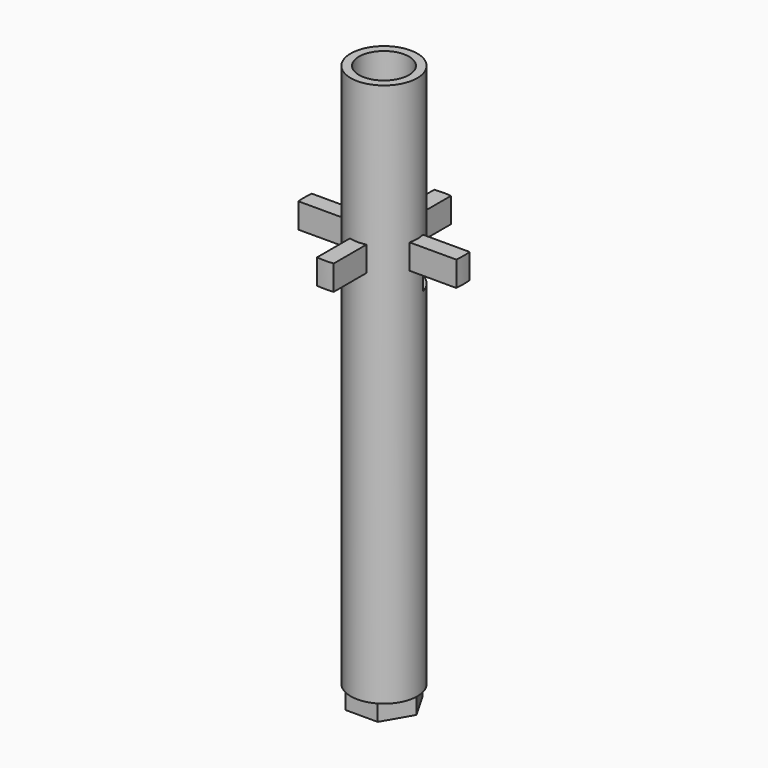
from build123d import *

# Parameters (mm, degrees)
SKETCH050_R     = 3
PAD038_DEPTH    = 2
SKETCH051_R     = 4
SKETCH051_R_2   = 3
PAD039_DEPTH    = 45.35
PAD040_DEPTH    = 3
SKETCH053_R     = 4
SKETCH053_R_2   = 3
PAD041_DEPTH    = 20
SKETCH054_W     = 15
SKETCH054_H     = 3
POCKET_DEPTH    = 5
SKETCH055_R     = 3
POCKET001_DEPTH = 67.351


with BuildPart() as part:
    # Sketch050 → Pad038 (new body)
    with BuildSketch(Plane.XY):
        Polygon((1.95, 3.377499), (-1.95, 3.377499), (-3.9, 0), (-1.95, -3.377499), (1.95, -3.377499), (3.9, 0), align=None)
        Circle(SKETCH050_R, mode=Mode.SUBTRACT)
    extrude(amount=PAD038_DEPTH)

    # Sketch051 (on Face9 of Pad038) → Pad039 (join)
    with BuildSketch(Plane.XY.offset(2)):
        Circle(SKETCH051_R)
        Circle(SKETCH051_R_2, mode=Mode.SUBTRACT)
    extrude(amount=PAD039_DEPTH)

    # Sketch052 (on Face12 of Pad039) → Pad040 (join)
    with BuildSketch(Plane.XY.offset(47.35)):
        with BuildLine():
            Line((1, -8.798354), (1, -1))
            Line((1, -1), (9.477389, -1))
            ThreePointArc((9.477389, -1), (9.53, 0), (9.477389, 1))
            Line((9.477389, 1), (1, 1))
            Line((1, 1), (1, 8.798354))
            ThreePointArc((1, 8.798354), (0, 8.855), (-1, 8.798354))
            Line((-1, 8.798354), (-1, 1))
            Line((-1, 1), (-9.477389, 1))
            ThreePointArc((-9.477389, 1), (-9.53, 0), (-9.477389, -1))
            Line((-9.477389, -1), (-1, -1))
            Line((-1, -1), (-1, -8.798354))
            ThreePointArc((-1, -8.798354), (0, -8.855), (1, -8.798354))
        make_face()
    extrude(amount=PAD040_DEPTH)

    # Sketch053 (on Face19 of Pad040) → Pad041 (join)
    with BuildSketch(Plane.XY.offset(47.35)):
        Circle(SKETCH053_R)
        Circle(SKETCH053_R_2, mode=Mode.SUBTRACT)
    extrude(amount=PAD041_DEPTH)

    # Sketch054 (on Face26 of Pad041) → Pocket (cut)
    with BuildSketch(Plane(origin=(0, 1, 0), x_dir=(-1, 0, 0), z_dir=(0, 1, 0))):
        with Locations((0, 45.852941)):
            Rectangle(SKETCH054_W, SKETCH054_H)
    extrude(amount=POCKET_DEPTH, mode=Mode.SUBTRACT)

    # Sketch055 (on Face36 of Pocket) → Pocket001 (cut, through all)
    with BuildSketch(Plane.XY.offset(67.35)):
        Circle(SKETCH055_R)
    extrude(amount=-POCKET001_DEPTH, mode=Mode.SUBTRACT)


solid = part.part
